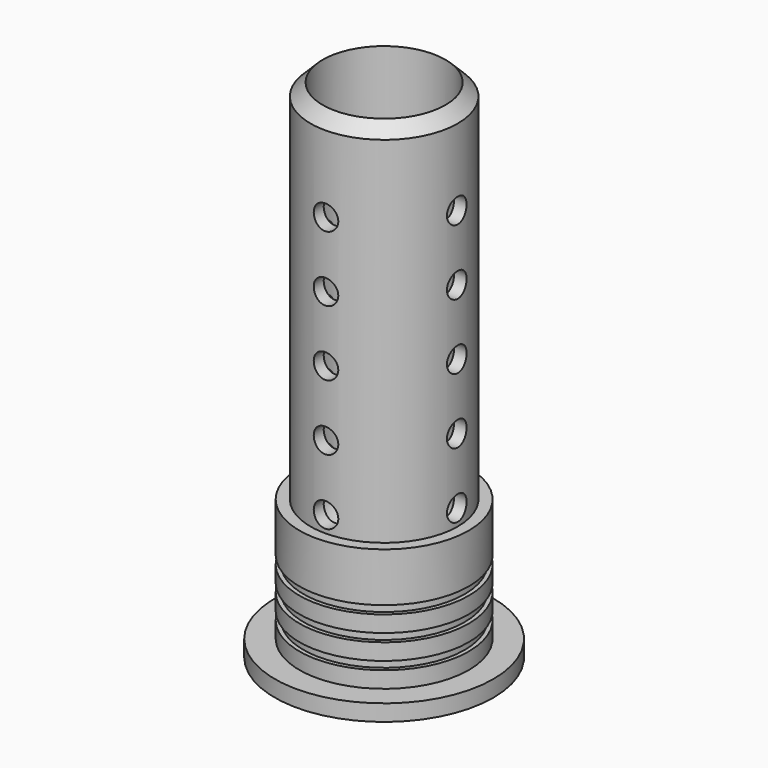
from build123d import *

# Parameters (mm, degrees)
F2_SIZE   = 3
F3_R      = 7.5
F4_DEPTH  = 50
F5_R      = 3
F6_R      = 1.5
F7_DEPTH  = 25
F9_COUNT  = 4
F11_R     = 12
F11_R_2   = 9
F12_DEPTH = 45


with BuildPart() as f1:
    # F0 (on Front) → F1 (revolve)
    with BuildSketch(Plane.XZ):
        Polygon((0, 62), (0, 0), (10.35, 0), (13.35, 0), (13.35, 2), (10.35, 2), (10.35, 4), (9.85, 4), (9.85, 5), (10.35, 5), (10.35, 7), (9.85, 7), (9.85, 8), (10.35, 8), (10.35, 10), (9.85, 10), (9.85, 11), (10.35, 11), (10.35, 62), align=None)
    revolve(axis=Axis((0, 0, 12.160539879), (0, 0, 1)))

    # F2
    f2_edges = [f1.edges().sort_by_distance(p)[0] for p in [
        (-10.35, 0, 62),
    ]]
    chamfer(f2_edges, length=F2_SIZE)

    # F3 (on face) → F4 (cut, through all)
    with BuildSketch(Plane.XY.offset(62)):
        Circle(F3_R)
    extrude(amount=-F4_DEPTH, mode=Mode.SUBTRACT)

    # F5
    f5_edges = [f1.edges().sort_by_distance(p)[0] for p in [
        (-7.5, 0, 12),
    ]]
    fillet(f5_edges, radius=F5_R)


with BuildPart() as f7:
    # F6 (on Front) → F7 (new body)
    with BuildSketch(Plane.XZ):
        with Locations((0, 19)):
            Circle(F6_R)
    extrude(amount=F7_DEPTH)


with BuildPart() as f7b:
    # F6 (on Front) → F7, piece 2 (new body)
    with BuildSketch(Plane.XZ):
        with Locations((0, 27)):
            Circle(F6_R)
    extrude(amount=F7_DEPTH)


with BuildPart() as f7c:
    # F6 (on Front) → F7, piece 3 (new body)
    with BuildSketch(Plane.XZ):
        with Locations((0, 35)):
            Circle(F6_R)
    extrude(amount=F7_DEPTH)


with BuildPart() as f7d:
    # F6 (on Front) → F7, piece 4 (new body)
    with BuildSketch(Plane.XZ):
        with Locations((0, 43)):
            Circle(F6_R)
    extrude(amount=F7_DEPTH)


with BuildPart() as f7e:
    # F6 (on Front) → F7, piece 5 (new body)
    with BuildSketch(Plane.XZ):
        with Locations((0, 51)):
            Circle(F6_R)
    extrude(amount=F7_DEPTH)


with BuildPart() as f9_tool:
    # F9: F7b, F7c, F7d, F7e, F7 ×4 about axis
    f9_axis = Axis((0, 0, 51.6321249306), (0, 0, 1))
    for i in range(1, F9_COUNT):
        add(f7b.part.rotate(f9_axis, i * 360 / F9_COUNT))
        add(f7c.part.rotate(f9_axis, i * 360 / F9_COUNT))
        add(f7d.part.rotate(f9_axis, i * 360 / F9_COUNT))
        add(f7e.part.rotate(f9_axis, i * 360 / F9_COUNT))
        add(f7.part.rotate(f9_axis, i * 360 / F9_COUNT))


with BuildPart() as f1_1:
    add(f1.part)

    # F9: cut by f9_tool
    add(f9_tool.part, mode=Mode.SUBTRACT)


with BuildPart() as f7_1:
    add(f7.part)

    # F9: cut by f9_tool
    add(f9_tool.part, mode=Mode.SUBTRACT)


with BuildPart() as f7b_1:
    add(f7b.part)

    # F9: cut by f9_tool
    add(f9_tool.part, mode=Mode.SUBTRACT)


with BuildPart() as f7c_1:
    add(f7c.part)

    # F9: cut by f9_tool
    add(f9_tool.part, mode=Mode.SUBTRACT)


with BuildPart() as f7d_1:
    add(f7d.part)

    # F9: cut by f9_tool
    add(f9_tool.part, mode=Mode.SUBTRACT)


with BuildPart() as f7e_1:
    add(f7e.part)

    # F9: cut by f9_tool
    add(f9_tool.part, mode=Mode.SUBTRACT)


with BuildPart() as f1_2:
    add(f1_1.part)

    # F9#seed: cut F7b, F7c, F7d, F7e, F7
    add(f7b_1.part, mode=Mode.SUBTRACT)
    add(f7c_1.part, mode=Mode.SUBTRACT)
    add(f7d_1.part, mode=Mode.SUBTRACT)
    add(f7e_1.part, mode=Mode.SUBTRACT)
    add(f7_1.part, mode=Mode.SUBTRACT)

    # F11 (on offset) → F12 (cut)
    with BuildSketch(Plane.XY.offset(62)):
        Circle(F11_R)
        Circle(F11_R_2, mode=Mode.SUBTRACT)
    extrude(amount=-F12_DEPTH, mode=Mode.SUBTRACT)


solid = f1_2.part
